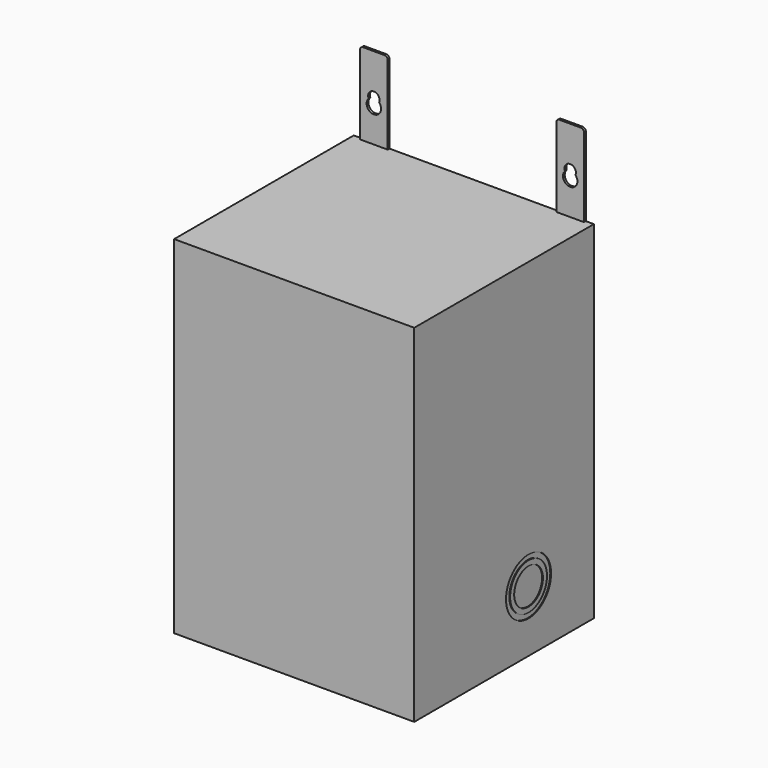
from build123d import *

# Parameters (mm, degrees)
F0_W      = 139.7
F0_H      = 215.9
F1_DEPTH  = 74.7
F2_R      = 17.526
F2_R_2    = 14.351
F2_R_3    = 11.176
F3_DEPTH  = 0.5
F4_R      = 17.526
F4_R_2    = 14.351
F4_R_3    = 11.176
F5_DEPTH  = 1
F4_R_4    = 3.55
F6_DEPTH  = 25
F7_W      = 17.25
F7_H      = 1.4
F8_DEPTH  = 51.1
F10_DEPTH = 139.701
F11_R     = 2


with BuildPart() as f1:
    # F0 (on Right) → F1 (new body, symmetric)
    with BuildSketch(Plane.YZ):
        with Locations((69.85, 107.95)):
            Rectangle(F0_W, F0_H)
    extrude(amount=F1_DEPTH, both=True)

    # F2 (on face) → F3 (cut)
    with BuildSketch(Plane.YZ.offset(74.7)):
        with Locations((88.9, 38.1)):
            Circle(F2_R)
        with Locations((88.9, 38.1)):
            Circle(F2_R_2, mode=Mode.SUBTRACT)
        with Locations((88.9, 38.1)):
            Circle(F2_R_3)
    extrude(amount=-F3_DEPTH, mode=Mode.SUBTRACT)

    # F4 (on face) → F5 (cut)
    with BuildSketch(Plane(origin=(0, 139.7, 0), x_dir=(-1, 0, 0), z_dir=(0, 1, 0))):
        with Locations((42.9, 38.1)):
            Circle(F4_R)
        with Locations((42.9, 38.1)):
            Circle(F4_R_2, mode=Mode.SUBTRACT)
        with Locations((42.9, 38.1)):
            Circle(F4_R_3)
    extrude(amount=-F5_DEPTH, mode=Mode.SUBTRACT)

    # F4 (on face) → F6 (cut)
    with BuildSketch(Plane(origin=(0, 139.7, 0), x_dir=(-1, 0, 0), z_dir=(0, 1, 0))):
        with Locations((0, 31.8)):
            Circle(F4_R_4)
    extrude(amount=-F6_DEPTH, mode=Mode.SUBTRACT)

    # F7 (on face) → F8 (join)
    with BuildSketch(Plane.XY.offset(215.9)):
        with Locations((61.075, 139)):
            Rectangle(F7_W, F7_H)
        with Locations((-61.075, 139)):
            Rectangle(F7_W, F7_H)
    extrude(amount=F8_DEPTH)

    # F9 (on face) → F10 (cut, through all)
    with BuildSketch(Plane(origin=(0, 139.7, 0), x_dir=(-1, 0, 0), z_dir=(0, 1, 0))):
        with BuildLine():
            ThreePointArc((-57.812835, 239.999722), (-57.597703, 240.685223), (-57.525, 241.4))
            ThreePointArc((-57.525, 241.4), (-61.789777, 244.877297), (-64.337165, 239.999722))
            ThreePointArc((-64.337165, 239.999722), (-61.075, 241.4), (-57.812835, 239.999722))
        make_face()
        with BuildLine():
            ThreePointArc((-57.812835, 239.999722), (-61.075, 241.4), (-64.337165, 239.999722))
            ThreePointArc((-64.337165, 239.999722), (-61.075, 237.85), (-57.812835, 239.999722))
        make_face()
        with BuildLine():
            ThreePointArc((-57.812835, 239.999722), (-61.075, 237.85), (-64.337165, 239.999722))
            ThreePointArc((-64.337165, 239.999722), (-62.74387, 232.720901), (-56.575, 236.9))
            ThreePointArc((-56.575, 236.9), (-56.895901, 238.56887), (-57.812835, 239.999722))
        make_face()
        with BuildLine():
            ThreePointArc((64.337165, 239.999722), (64.552297, 240.685223), (64.625, 241.4))
            ThreePointArc((64.625, 241.4), (60.360223, 244.877297), (57.812835, 239.999722))
            ThreePointArc((57.812835, 239.999722), (61.075, 241.4), (64.337165, 239.999722))
        make_face()
        with BuildLine():
            ThreePointArc((64.337165, 239.999722), (61.075, 241.4), (57.812835, 239.999722))
            ThreePointArc((57.812835, 239.999722), (61.075, 237.85), (64.337165, 239.999722))
        make_face()
        with BuildLine():
            ThreePointArc((64.337165, 239.999722), (61.075, 237.85), (57.812835, 239.999722))
            ThreePointArc((57.812835, 239.999722), (59.40613, 232.720901), (65.575, 236.9))
            ThreePointArc((65.575, 236.9), (65.254099, 238.56887), (64.337165, 239.999722))
        make_face()
    extrude(amount=-F10_DEPTH, mode=Mode.SUBTRACT)

    # F11
    f11_edges = [f1.edges().sort_by_distance(p)[0] for p in [
        (-52.45, 139, 267),
        (-69.7, 139, 267),
        (69.7, 139, 267),
        (52.45, 139, 267),
    ]]
    fillet(f11_edges, radius=F11_R)


solid = f1.part
